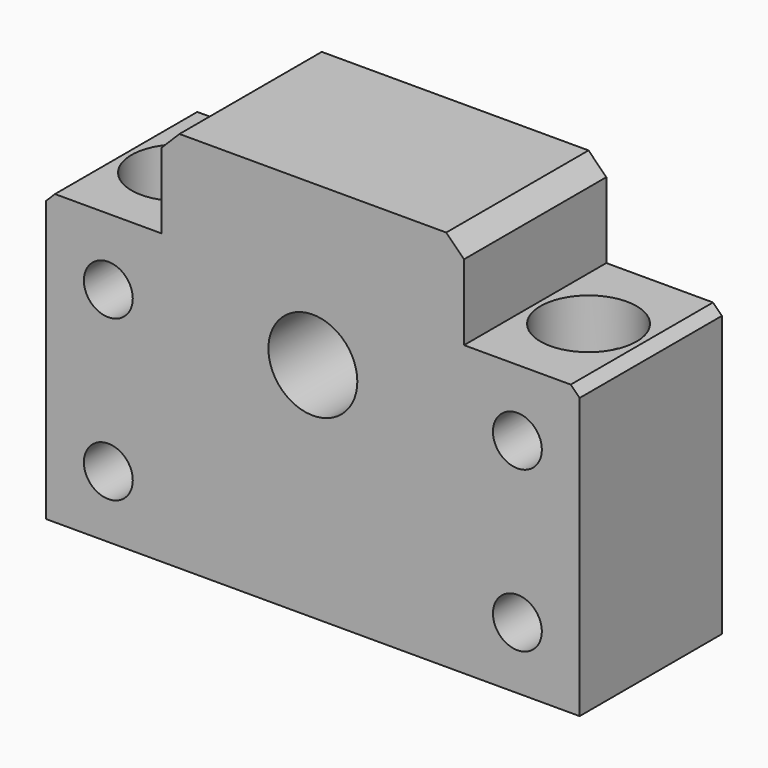
from build123d import *

# Parameters (mm, degrees)
F0_R     = 2.75
F0_R_2   = 5
F1_DEPTH = 20
F2_SIZE  = 1
F3_SIZE  = 2
F4_R     = 5.4
F4_R_2   = 3.3
F5_DEPTH = 8.5
F6_DEPTH = 32.501


with BuildPart() as f1:
    # F0 (on Front) → F1 (new body)
    with BuildSketch(Plane.XZ):
        Polygon((-31.441849, 5.918281), (-44.441849, 5.918281), (-44.441849, -26.581719), (15.558151, -26.581719), (15.558151, 5.918281), (2.558151, 5.918281), (2.558151, 16.418281), (-31.441849, 16.418281), align=None)
        with Locations((-37.441849, -19.581719)):
            Circle(F0_R, mode=Mode.SUBTRACT)
        with Locations((8.558151, -19.581719)):
            Circle(F0_R, mode=Mode.SUBTRACT)
        with Locations((-37.441849, -1.581719)):
            Circle(F0_R, mode=Mode.SUBTRACT)
        with Locations((-14.441849, -1.581719)):
            Circle(F0_R_2, mode=Mode.SUBTRACT)
        with Locations((8.558151, -1.581719)):
            Circle(F0_R, mode=Mode.SUBTRACT)
    extrude(amount=F1_DEPTH)

    # F2
    f2_edges = [f1.edges().sort_by_distance(p)[0] for p in [
        (-44.441849, -10, 5.918281),
        (15.558151, -10, 5.918281),
    ]]
    chamfer(f2_edges, length=F2_SIZE)

    # F3
    f3_edges = [f1.edges().sort_by_distance(p)[0] for p in [
        (-31.441849, -10, 16.418281),
        (2.558151, -10, 16.418281),
    ]]
    chamfer(f3_edges, length=F3_SIZE)

    # F4 (on face) → F5 (cut)
    with BuildSketch(Plane.XY.offset(5.918281)):
        with Locations((-37.441849, -10)):
            Circle(F4_R)
        with Locations((-37.441849, -10)):
            Circle(F4_R_2, mode=Mode.SUBTRACT)
        with Locations((8.558151, -10)):
            Circle(F4_R)
        with Locations((8.558151, -10)):
            Circle(F4_R_2, mode=Mode.SUBTRACT)
    extrude(amount=-F5_DEPTH, mode=Mode.SUBTRACT)

    # F4 (on face) → F6 (cut, through all)
    with BuildSketch(Plane.XY.offset(5.918281)):
        with Locations((-37.441849, -10)):
            Circle(F4_R_2)
        with Locations((8.558151, -10)):
            Circle(F4_R_2)
    extrude(amount=-F6_DEPTH, mode=Mode.SUBTRACT)


solid = f1.part
